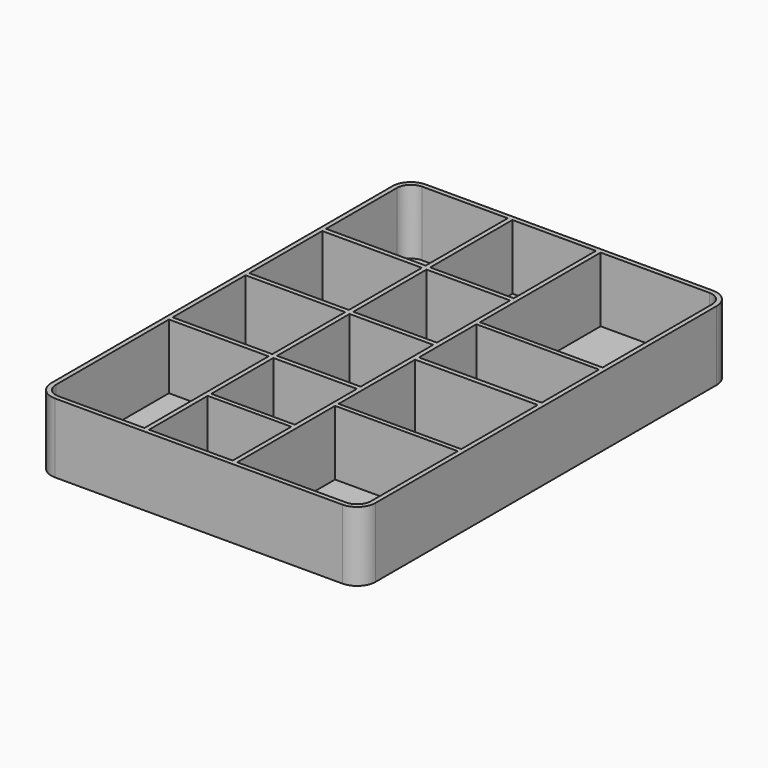
from build123d import *

# Parameters (mm, degrees)
SKETCH_W      = 140
SKETCH_H      = 200
PAD_DEPTH     = 30
FILLET_R      = 8
THICKNESS_T   = -2
SKETCH001_W   = 2
SKETCH001_H   = 196
SKETCH001_W_2 = 43
SKETCH001_H_2 = 2.053146
PAD001_DEPTH  = 28
SKETCH002_W   = 2
SKETCH002_H   = 196
SKETCH002_W_2 = 36.08274
SKETCH002_H_2 = 2.002022
SKETCH002_H_3 = 2.030933
SKETCH002_H_4 = 2.030928
SKETCH002_H_5 = 1.901375
SKETCH002_W_3 = 53.704103
SKETCH002_H_6 = 1.896915
SKETCH002_W_4 = 53
SKETCH002_H_7 = 2.073647
SKETCH002_W_5 = 52.91726
SKETCH002_H_8 = 1.89692
PAD002_DEPTH  = 10
PAD003_DEPTH  = 28
SKETCH003_W   = 43
SKETCH003_H   = 2
PAD004_DEPTH  = 30


with BuildPart() as part:
    # Sketch → Pad (new body)
    with BuildSketch(Plane.XY):
        with Locations((11.803558, 17.899191)):
            Rectangle(SKETCH_W, SKETCH_H)
    extrude(amount=PAD_DEPTH)

    # Fillet
    fillet_edges = [part.edges().sort_by_distance(p)[0] for p in [
        (-58.196442, -82.100809, 15),
        (81.803558, -82.100809, 15),
        (81.803558, 117.899191, 15),
        (-58.196442, 117.899191, 15),
    ]]
    fillet(fillet_edges, radius=FILLET_R)

    # Thickness
    thickness_openings = [part.faces().sort_by_distance(p)[0] for p in [
        (11.803558, 17.899191, 30),
    ]]
    offset(amount=THICKNESS_T, openings=thickness_openings)

    # Sketch001 (on Face10 of Thickness) → Pad001 (join)
    with BuildSketch(Plane.XY.offset(30)):
        with Locations((-12.196442, 17.899191)):
            Rectangle(SKETCH001_W, SKETCH001_H)
        with Locations((-34.696442, 70.620445)):
            Rectangle(SKETCH001_W_2, SKETCH001_H_2)
    extrude(amount=-PAD001_DEPTH)

    # Sketch002 (on Face23 of Pad001) → Pad002 (join)
    with BuildSketch(Plane.XY.offset(2)):
        with Locations((25.886298, 17.899191)):
            Rectangle(SKETCH002_W, SKETCH002_H)
        with Locations((6.844928, 70.562603)):
            Rectangle(SKETCH002_W_2, SKETCH002_H_2)
        with Locations((6.844928, 29.084188)):
            Rectangle(SKETCH002_W_2, SKETCH002_H_3)
        with Locations((6.844928, -12.045896)):
            Rectangle(SKETCH002_W_2, SKETCH002_H_4)
        with Locations((6.844928, -47.510318)):
            Rectangle(SKETCH002_W_2, SKETCH002_H_5)
        with Locations((53.738349, 49.849649)):
            Rectangle(SKETCH002_W_3, SKETCH002_H_6)
        with Locations((53.386298, 16.862367)):
            Rectangle(SKETCH002_W_4, SKETCH002_H_7)
        with Locations((53.344928, -26.393629)):
            Rectangle(SKETCH002_W_5, SKETCH002_H_8)
    extrude(amount=PAD002_DEPTH)

    # Sketch002 (on Face23 of Pad001) → Pad003 (join)
    with BuildSketch(Plane.XY.offset(2)):
        with Locations((25.886298, 17.899191)):
            Rectangle(SKETCH002_W, SKETCH002_H)
        with Locations((6.844928, 70.562603)):
            Rectangle(SKETCH002_W_2, SKETCH002_H_2)
        with Locations((6.844928, 29.084188)):
            Rectangle(SKETCH002_W_2, SKETCH002_H_3)
        with Locations((6.844928, -12.045896)):
            Rectangle(SKETCH002_W_2, SKETCH002_H_4)
        with Locations((6.844928, -47.510318)):
            Rectangle(SKETCH002_W_2, SKETCH002_H_5)
        with Locations((53.738349, 49.849649)):
            Rectangle(SKETCH002_W_3, SKETCH002_H_6)
        with Locations((53.386298, 16.862367)):
            Rectangle(SKETCH002_W_4, SKETCH002_H_7)
        with Locations((53.344928, -26.393629)):
            Rectangle(SKETCH002_W_5, SKETCH002_H_8)
    extrude(amount=PAD003_DEPTH)

    # Sketch003 → Pad004 (join)
    with BuildSketch(Plane.XY):
        with Locations((-34.696442, 29.20466)):
            Rectangle(SKETCH003_W, SKETCH003_H)
        with Locations((-34.696442, -12.11418)):
            Rectangle(SKETCH003_W, SKETCH003_H)
    extrude(amount=PAD004_DEPTH)


solid = part.part
